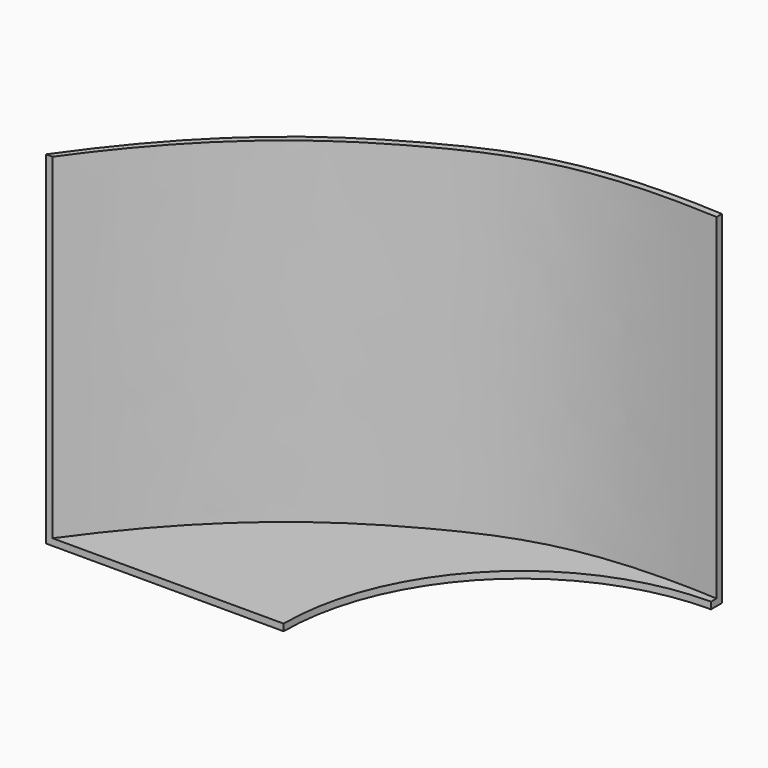
from build123d import *

# Parameters (mm, degrees)
PAD001_DEPTH = 101
PAD_DEPTH    = 101


with BuildPart() as body001:
    # Sketch001 → Pad001 (new body)
    with BuildSketch(Plane.XY):
        with BuildLine():
            ThreePointArc((0, 70), (-49.497475, 49.497475), (-70, 0))
            Line((-70, 0), (-140, 0))
            add(Edge.make_bspline(
                [(-140, 0), (-116.215675, 34.108066), (-72.307575, 63.782966), (-38.201575, 76.136366), (0, 74)],
                knots=[0, 0, 0, 0, 0.5, 1, 1, 1, 1], degree=3))
            Line((0, 74), (0, 70))
        make_face()
    extrude(amount=PAD001_DEPTH)


with BuildPart() as body001_1:
    # Body001 placement: moved
    add(body001.part.moved(Location((0.5, -2, 2))))


with BuildPart() as cut:
    # Sketch → Pad (new body)
    with BuildSketch(Plane.XY):
        with BuildLine():
            ThreePointArc((0, 70), (-49.497475, 49.497475), (-70, 0))
            Line((-70, 0), (-140, 0))
            add(Edge.make_bspline(
                [(-140, 0), (-116.215675, 34.108066), (-72.307575, 63.782966), (-38.201575, 76.136366), (0, 74)],
                knots=[0, 0, 0, 0, 0.5, 1, 1, 1, 1], degree=3))
            Line((0, 74), (0, 70))
        make_face()
    extrude(amount=PAD_DEPTH)

    # Cut: cut Body001
    add(body001_1.part, mode=Mode.SUBTRACT)


solid = cut.part
